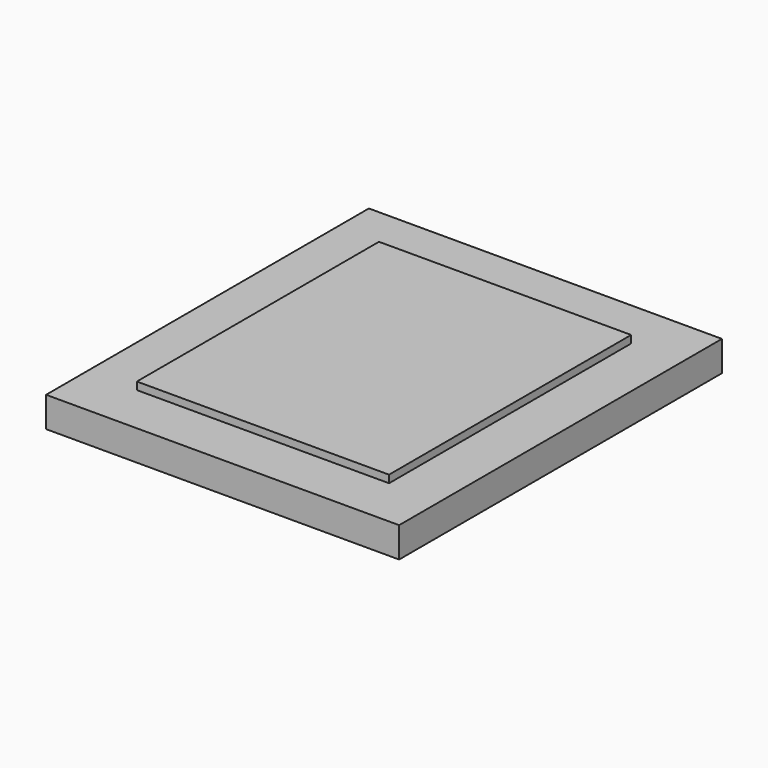
from build123d import *

# Parameters (mm, degrees)
F0_W     = 140
F0_H     = 160
F0_W_2   = 100
F0_H_2   = 120
F1_DEPTH = 2
F2_DEPTH = 5
F3_DEPTH = 10


with BuildPart() as f1:
    # F0 (on Top) → F1 (new body)
    with BuildSketch(Plane.XY):
        with Locations((50, 60)):
            Rectangle(F0_W, F0_H)
        with Locations((50, 60)):
            Rectangle(F0_W_2, F0_H_2, mode=Mode.SUBTRACT)
        with Locations((50, 60)):
            Rectangle(F0_W_2, F0_H_2)
    extrude(amount=F1_DEPTH)

    # F0 (on Top) → F2 (join)
    with BuildSketch(Plane.XY):
        with Locations((50, 60)):
            Rectangle(F0_W_2, F0_H_2)
    extrude(amount=F2_DEPTH)

    # F0 (on Top) → F3 (join)
    with BuildSketch(Plane.XY):
        with Locations((50, 60)):
            Rectangle(F0_W, F0_H)
        with Locations((50, 60)):
            Rectangle(F0_W_2, F0_H_2, mode=Mode.SUBTRACT)
        with Locations((50, 60)):
            Rectangle(F0_W_2, F0_H_2)
    extrude(amount=-F3_DEPTH)


solid = f1.part
